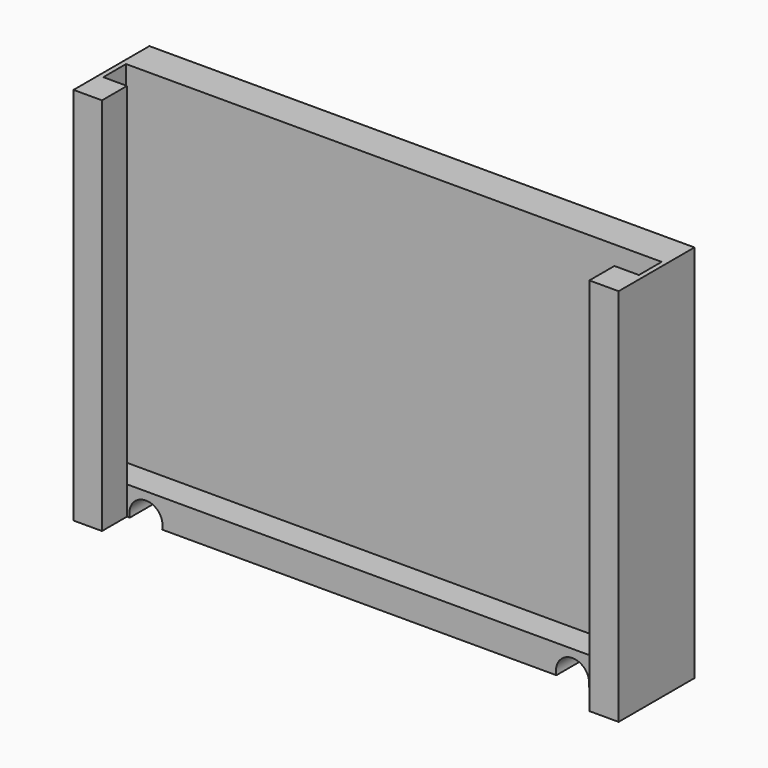
from build123d import *

# Parameters (mm, degrees)
F0_W     = 146.05
F0_H     = 25.4
F1_DEPTH = 101.6
F3_DEPTH = 93.98
F5_DEPTH = 101.601
F6_R     = 4.445
F7_DEPTH = 25.401
F8_W     = 1.27
F8_H     = 93.98
F9_DEPTH = 7.62


with BuildPart() as f1:
    # F0 (on Top) → F1 (new body)
    with BuildSketch(Plane.XY):
        with Locations((4.217781, -17.604944)):
            Rectangle(F0_W, F0_H)
    extrude(amount=F1_DEPTH)

    # F2 (on face) → F3 (cut)
    with BuildSketch(Plane.XY.offset(101.6)):
        Polygon((77.242781, -14.302944), (-63.299149, -14.302944), (-68.807219, -14.302944), (-68.807219, -21.922944), (-63.299149, -21.922944), (77.242781, -21.922944), align=None)
    extrude(amount=-F3_DEPTH, mode=Mode.SUBTRACT)

    # F4 (on face) → F5 (cut, through all)
    with BuildSketch(Plane.XY.offset(101.6)):
        Polygon((-61.187219, -21.922944), (-61.187219, -26.113944), (-61.187219, -30.304944), (69.411784, -30.304944), (69.411784, -26.113944), (69.411784, -21.922944), align=None)
    extrude(amount=-F5_DEPTH, mode=Mode.SUBTRACT)

    # F6 (on face) → F7 (cut, through all)
    with BuildSketch(Plane(origin=(0, -4.904944, 0), x_dir=(-1, 0, 0), z_dir=(0, 1, 0))):
        with Locations((-58.192781, 1.016)):
            Circle(F6_R)
        with Locations((56.107219, 1.016)):
            Circle(F6_R)
    extrude(amount=-F7_DEPTH, mode=Mode.SUBTRACT)

    # F8 (on face) → F9 (join)
    with BuildSketch(Plane.XZ.offset(14.302944)):
        with Locations((76.607781, 54.61)):
            Rectangle(F8_W, F8_H)
        with Locations((-68.172219, 54.61)):
            Rectangle(F8_W, F8_H)
    extrude(amount=F9_DEPTH)


solid = f1.part
